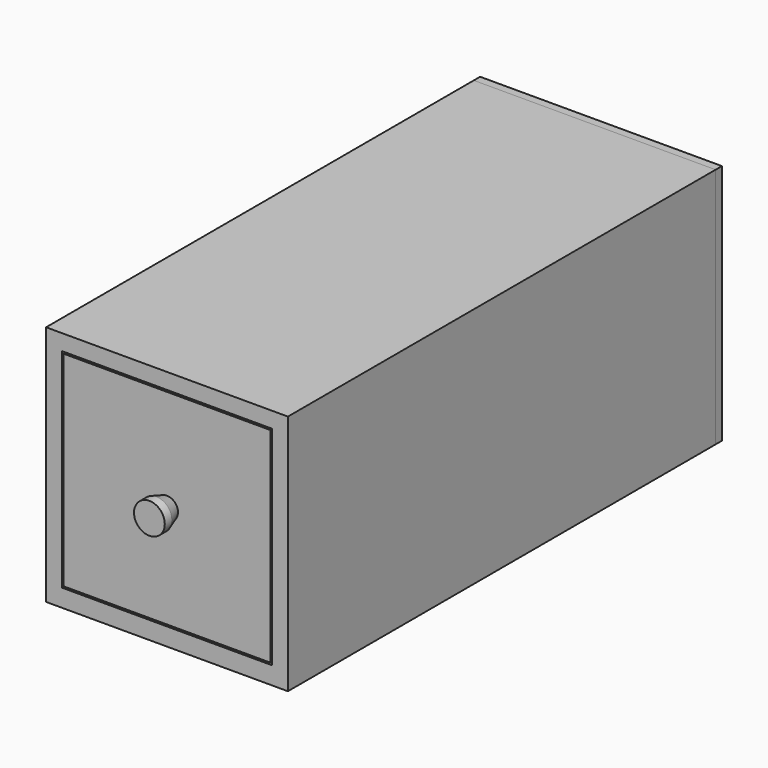
from build123d import *

# Parameters (mm, degrees)
F0_W      = 275
F0_H      = 275
F0_W_2    = 239
F0_H_2    = 236.838547
F1_DEPTH  = 608
F2_W      = 275
F2_H      = 275
F3_DEPTH  = 9
F4_W      = 235
F4_H      = 232.838547
F5_DEPTH  = 18
F6_W      = 210
F6_H      = 189.362255
F7_DEPTH  = 550
F8_T      = -18
F9_R      = 17.5
F10_DEPTH = 25
F11_SIZE2 = 5
F11_SIZE  = 15


with BuildPart() as f1:
    # F0 (on Front) → F1 (new body)
    with BuildSketch(Plane.XZ):
        with Locations((-189.348952, 65.956648)):
            Rectangle(F0_W, F0_H)
        with Locations((-189.348952, 67.037374)):
            Rectangle(F0_W_2, F0_H_2, mode=Mode.SUBTRACT)
    extrude(amount=F1_DEPTH)


with BuildPart() as f3:
    # F2 (on face) → F3 (new body)
    with BuildSketch(Plane(origin=(0, 0, 0), x_dir=(-1, 0, 0), z_dir=(0, 1, 0))):
        with Locations((189.348952, 65.956648)):
            Rectangle(F2_W, F2_H)
    extrude(amount=F3_DEPTH)


with BuildPart() as f5:
    # F4 (on face) → F5 (new body)
    with BuildSketch(Plane.XZ.offset(608)):
        with Locations((-189.348952, 67.037374)):
            Rectangle(F4_W, F4_H)
    extrude(amount=-F5_DEPTH)


with BuildPart() as f7:
    # F6 (on face) → F7 (new body)
    with BuildSketch(Plane(origin=(0, -590, 0), x_dir=(-1, 0, 0), z_dir=(0, 1, 0))):
        with Locations((189.348952, 65.299228)):
            Rectangle(F6_W, F6_H)
    extrude(amount=F7_DEPTH)

    # F8
    f8_openings = [f7.faces().sort_by_distance(p)[0] for p in [
        (-189.348952, -315, 159.980356),
    ]]
    offset(amount=F8_T, openings=f8_openings)


with BuildPart() as f10:
    # F9 (on face) → F10 (new body)
    with BuildSketch(Plane.XZ.offset(608)):
        with Locations((-189.348952, 67.037374)):
            Circle(F9_R)
    extrude(amount=F10_DEPTH)

    # F11
    f11_edges = [f10.edges().sort_by_distance(p)[0] for p in [
        (-206.848952, -608, 67.037374),
    ]]
    chamfer(f11_edges, length=F11_SIZE, length2=F11_SIZE2)


solid = Compound([f1.part, f3.part, f5.part, f7.part, f10.part])
